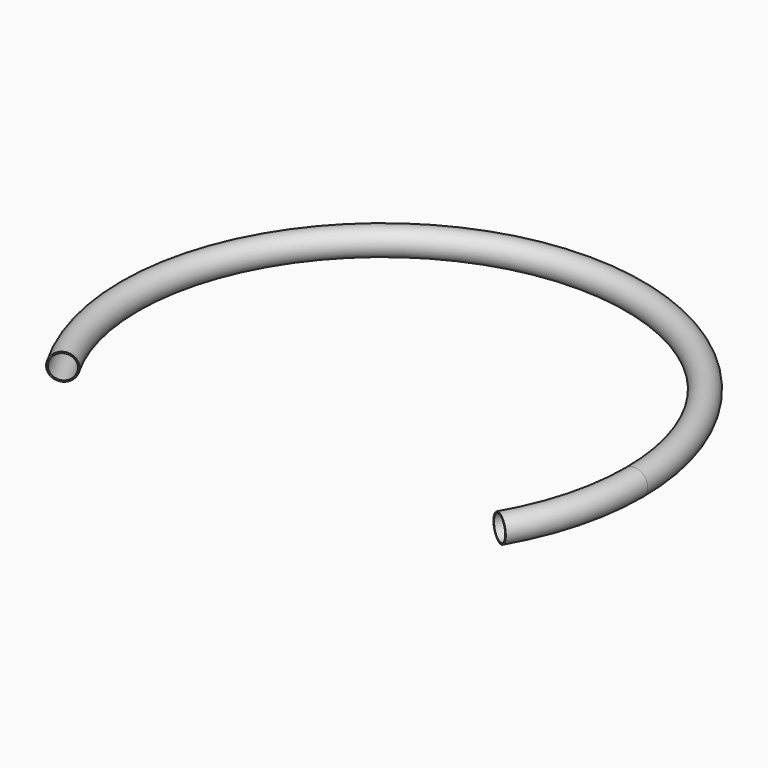
from build123d import *

# Parameters (mm, degrees)
F1_R          = 15
F1_R_2        = 13.5
F4_DEPTH      = 15.001
F4_DEPTH_BACK = 15.001


with BuildPart() as f2:
    # F2: sweep along a path in F0
    with BuildLine(Plane.XY) as f2_path:
        CenterArc((0, 0), 285, 0, 360)
    # F1 (on Front) → F2 (sweep)
    with BuildSketch(Plane.XZ):
        with Locations((-285, 0)):
            Circle(F1_R)
        with Locations((-285, 0)):
            Circle(F1_R_2, mode=Mode.SUBTRACT)
    sweep(path=f2_path.line)

    # F3 (on Top) → F4 (cut, two sides)
    with BuildSketch(Plane.XY) as f4_sk:
        Polygon((793.941997, -458.382626), (0, 0), (-793.941997, -458.382626), align=None)
    extrude(amount=F4_DEPTH, mode=Mode.SUBTRACT)
    extrude(f4_sk.sketch, amount=-F4_DEPTH_BACK, mode=Mode.SUBTRACT)


solid = f2.part
